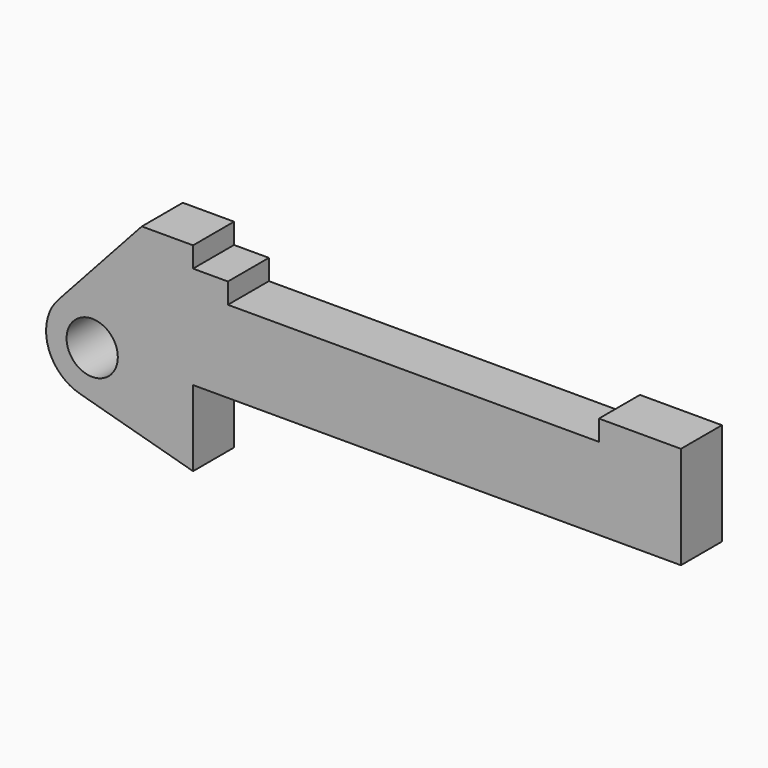
from build123d import *

# Parameters (mm, degrees)
F0_R     = 3.175
F0_W     = 5.842
F0_H     = 12.7
F1_DEPTH = 6.35


with BuildPart() as f1:
    # F0 (on Front) → F1 (new body)
    with BuildSketch(Plane.XZ):
        with BuildLine():
            Line((5.842, 0), (0, 0))
            Line((0, 0), (-0.9398, 0))
            ThreePointArc((-0.9398, 0), (-3.195791, -4.549339), (-8.182663, -5.506983))
            Line((-8.182663, -5.506983), (5.842, -9.398))
            Line((5.842, -9.398), (5.842, 0))
        make_face()
        with BuildLine():
            ThreePointArc((-8.182663, -5.506983), (-3.195791, -4.549339), (-0.9398, 0))
            ThreePointArc((-0.9398, 0), (-4.591961, 5.329721), (-10.88063, 3.847543))
            ThreePointArc((-10.88063, 3.847543), (-12.145978, -1.583727), (-8.182663, -5.506983))
        make_face()
        with Locations((-6.6548, 0)):
            Circle(F0_R, mode=Mode.SUBTRACT)
        with BuildLine():
            Line((-0.9398, 0), (0, 0))
            Line((0, 0), (0, 12.7))
            Line((0, 12.7), (5.842, 12.7))
            Line((5.842, 12.7), (5.842, 15.24))
            Line((5.842, 15.24), (-0.508, 15.24))
            Line((-0.508, 15.24), (-10.88063, 3.847543))
            ThreePointArc((-10.88063, 3.847543), (-4.591961, 5.329721), (-0.9398, 0))
        make_face()
        with Locations((2.921, 6.35)):
            Rectangle(F0_W, F0_H)
        Polygon((5.842, 12.7), (5.842, 0), (66.294, 0), (66.294, 12.7), (56.134, 12.7), (56.134, 10.16), (10.16, 10.16), (10.16, 12.7), align=None)
    extrude(amount=F1_DEPTH)


solid = f1.part
